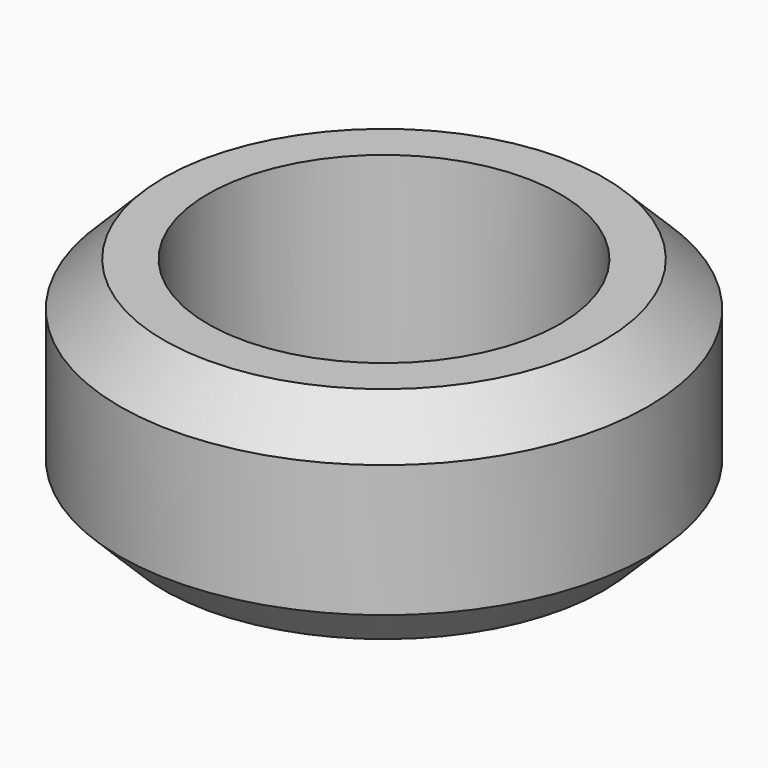
from build123d import *

# Parameters (mm, degrees)
CYLINDER017_R     = 8
CYLINDER017_DEPTH = 10
CYLINDER016_R     = 12
CYLINDER016_DEPTH = 10
CHAMFER008_SIZE   = 2


with BuildPart() as cylindre001:
    # Cylinder017 → Cylinder017 (new body)
    with BuildSketch(Plane.XY):
        Circle(CYLINDER017_R)
    extrude(amount=CYLINDER017_DEPTH)


with BuildPart() as chamfer008:
    # Cylinder016 → Cylinder016 (new body)
    with BuildSketch(Plane.XY):
        Circle(CYLINDER016_R)
    extrude(amount=CYLINDER016_DEPTH)

    # Cut008: cut Cylindre001
    add(cylindre001.part, mode=Mode.SUBTRACT)

    # Chamfer008
    chamfer008_edges = [chamfer008.edges().sort_by_distance(p)[0] for p in [
        (-12, 0, 10),
        (-12, 0, 0),
    ]]
    chamfer(chamfer008_edges, length=CHAMFER008_SIZE)


solid = chamfer008.part
